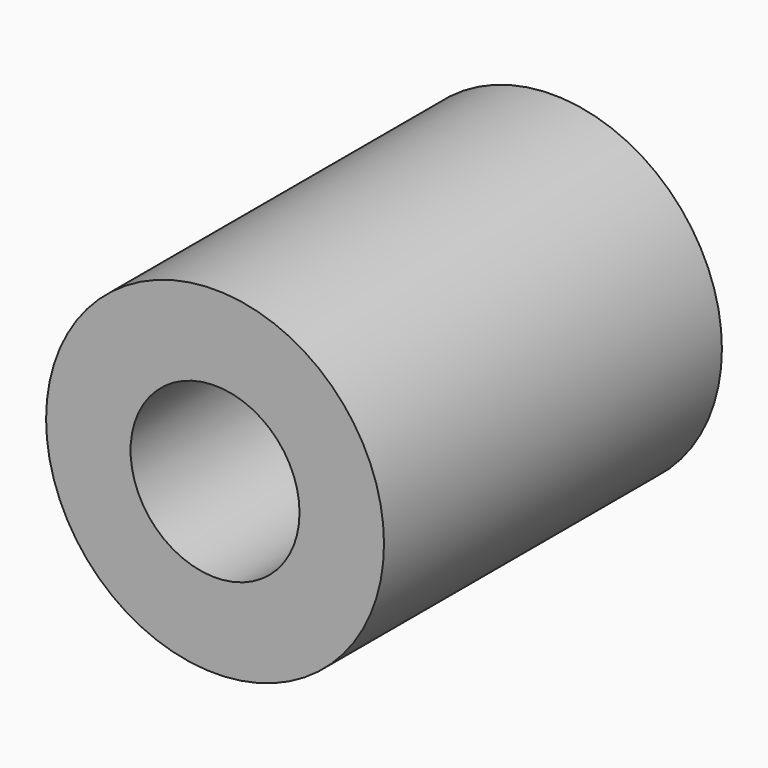
from build123d import *

# Parameters (mm, degrees)
F0_R     = 10
F1_DEPTH = 25
F2_R     = 5
F3_DEPTH = 12.5
F4_R     = 3.175
F5_DEPTH = 25.001


with BuildPart() as f1:
    # F0 (on Front) → F1 (new body)
    with BuildSketch(Plane.XZ):
        Circle(F0_R)
    extrude(amount=F1_DEPTH)

    # F2 (on face) → F3 (cut)
    with BuildSketch(Plane.XZ.offset(25)):
        Circle(F2_R)
    extrude(amount=-F3_DEPTH, mode=Mode.SUBTRACT)

    # F4 (on face) → F5 (cut, through all)
    with BuildSketch(Plane(origin=(0, 0, 0), x_dir=(-1, 0, 0), z_dir=(0, 1, 0))):
        Circle(F4_R)
    extrude(amount=-F5_DEPTH, mode=Mode.SUBTRACT)


solid = f1.part
